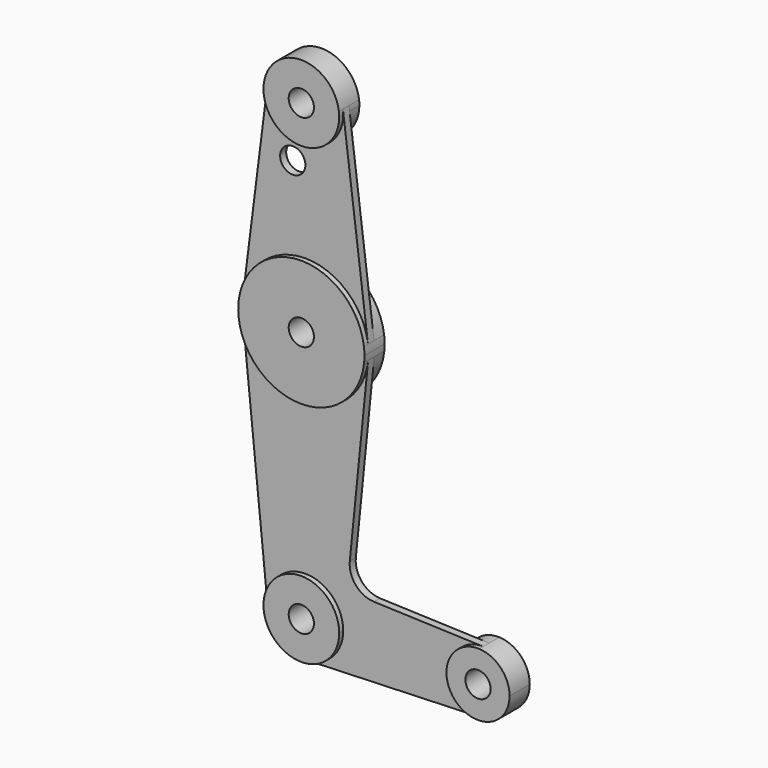
from build123d import *

# Parameters (mm, degrees)
F0_R     = 63.5
F1_DEPTH = 63.5
F2_DEPTH = 38.1


with BuildPart() as f1:
    # F0 (on Front) → F1 (new body, symmetric)
    with BuildSketch(Plane.XZ):
        with BuildLine():
            ThreePointArc((-189.005859, 2309.8125), (-11.929665, 2095.873902), (190.5, 2286))
            ThreePointArc((190.5, 2286), (190.126098, 2297.929665), (189.005859, 2309.8125))
            ThreePointArc((189.005859, 2309.8125), (0, 2476.5), (-189.005859, 2309.8125))
        make_face()
        with Locations((0, 2286)):
            Circle(F0_R, mode=Mode.SUBTRACT)
        with BuildLine():
            ThreePointArc((317.5, 1270), (316.87683, 1289.882775), (315.009765, 1309.6875))
            ThreePointArc((315.009765, 1309.6875), (0, 1587.5), (-315.009765, 1309.6875))
            ThreePointArc((-315.009765, 1309.6875), (-317.474876, 1273.99411), (-315.908511, 1238.25))
            ThreePointArc((-315.908511, 1238.25), (0, 952.5), (315.908511, 1238.25))
            ThreePointArc((315.908511, 1238.25), (317.101878, 1254.105069), (317.5, 1270))
        make_face()
        with Locations((0, 1270)):
            Circle(F0_R, mode=Mode.SUBTRACT)
        with BuildLine():
            ThreePointArc((190.5, 0), (-9.536959, 190.261127), (-189.545107, -19.05))
            ThreePointArc((-189.545107, -19.05), (-125.247668, -143.538398), (6.803571, -190.378469))
            ThreePointArc((6.803571, -190.378469), (137.088166, -132.276547), (190.5, 0))
        make_face()
        Circle(F0_R, mode=Mode.SUBTRACT)
        with BuildLine():
            ThreePointArc((894.669643, 158.648724), (730.25, 0), (894.669643, -158.648724))
            ThreePointArc((894.669643, -158.648724), (1003.240138, -110.230456), (1047.75, 0))
            ThreePointArc((1047.75, 0), (1003.240138, 110.230456), (894.669643, 158.648724))
        make_face()
        with Locations((889, 0)):
            Circle(F0_R, mode=Mode.SUBTRACT)
    extrude(amount=F1_DEPTH, both=True)


with BuildPart() as f2:
    # F0 (on Front) → F2 (new body)
    with BuildSketch(Plane.XZ):
        with BuildLine():
            ThreePointArc((189.005859, 2309.8125), (190.126098, 2297.929665), (190.5, 2286))
            ThreePointArc((190.5, 2286), (-11.929665, 2095.873902), (-189.005859, 2309.8125))
            Line((-189.005859, 2309.8125), (-315.009765, 1309.6875))
            ThreePointArc((-315.009765, 1309.6875), (0, 1587.5), (315.009765, 1309.6875))
            Line((315.009765, 1309.6875), (189.005859, 2309.8125))
        make_face()
        with Locations((-63.5, 2000.25)):
            Circle(F0_R, mode=Mode.SUBTRACT)
        with BuildLine():
            ThreePointArc((315.908511, 1238.25), (0, 952.5), (-315.908511, 1238.25))
            Line((-315.908511, 1238.25), (-189.545107, -19.05))
            ThreePointArc((-189.545107, -19.05), (-9.536959, 190.261127), (190.5, 0))
            ThreePointArc((190.5, 0), (137.088166, -132.276547), (6.803571, -190.378469))
            Line((6.803571, -190.378469), (894.669643, -158.648724))
            ThreePointArc((894.669643, -158.648724), (730.25, 0), (894.669643, 158.648724))
            Line((894.669643, 158.648724), (345.237827, 178.283815))
            ThreePointArc((345.237827, 178.283815), (254.081276, 221.704349), (223.410137, 317.902795))
            Line((223.410137, 317.902795), (315.908511, 1238.25))
        make_face()
    extrude(amount=F2_DEPTH)


solid = Compound([f1.part, f2.part])
